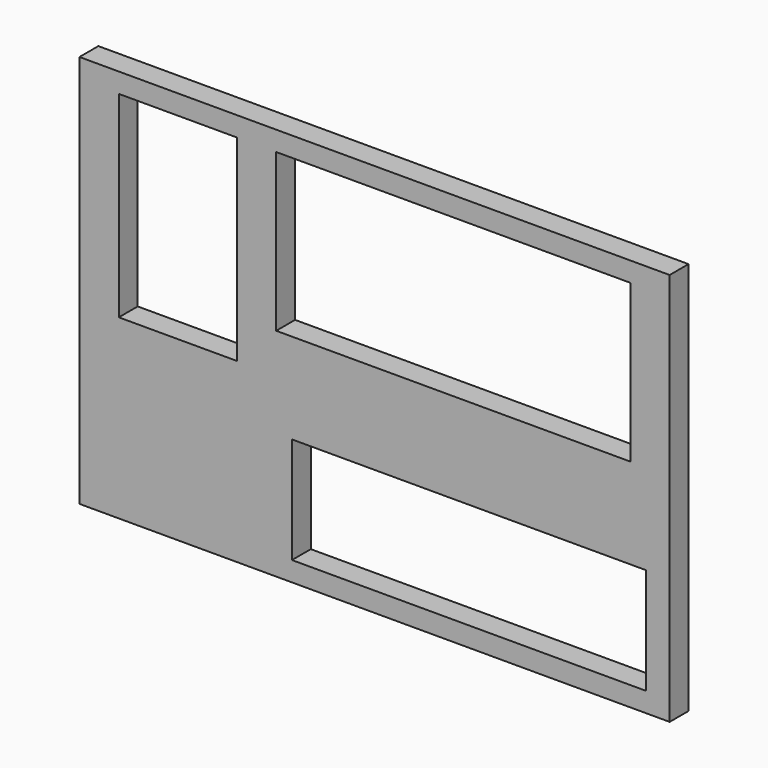
from build123d import *

# Parameters (mm, degrees)
F0_W     = 150
F0_H     = 100
F0_W_2   = 90
F0_H_2   = 27
F0_W_3   = 30
F0_H_3   = 50
F0_H_4   = 40
F1_DEPTH = 6


with BuildPart() as f1:
    # F0 (on Front) → F1 (new body)
    with BuildSketch(Plane.XZ):
        Rectangle(F0_W, F0_H)
        with Locations((24, -31.5)):
            Rectangle(F0_W_2, F0_H_2, mode=Mode.SUBTRACT)
        with Locations((-50, 20)):
            Rectangle(F0_W_3, F0_H_3, mode=Mode.SUBTRACT)
        with Locations((20, 25)):
            Rectangle(F0_W_2, F0_H_4, mode=Mode.SUBTRACT)
    extrude(amount=F1_DEPTH)


solid = f1.part
